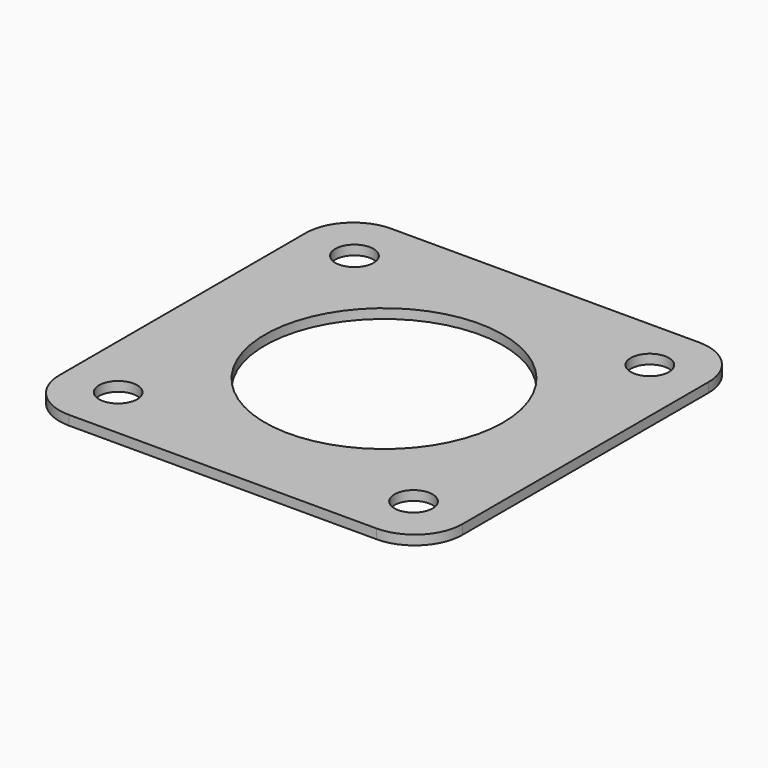
from build123d import *

# Parameters (mm, degrees)
F0_R     = 2
F0_R_2   = 12.5
F1_DEPTH = 1


with BuildPart() as f1:
    # F0 (on Top) → F1 (new body)
    with BuildSketch(Plane.XY):
        with BuildLine():
            ThreePointArc((21.15, 16.15), (19.685534, 19.685534), (16.15, 21.15))
            Line((16.15, 21.15), (-16.15, 21.15))
            ThreePointArc((-16.15, 21.15), (-19.685534, 19.685534), (-21.15, 16.15))
            Line((-21.15, 16.15), (-21.15, -16.15))
            ThreePointArc((-21.15, -16.15), (-19.685534, -19.685534), (-16.15, -21.15))
            Line((-16.15, -21.15), (16.15, -21.15))
            ThreePointArc((16.15, -21.15), (19.685534, -19.685534), (21.15, -16.15))
            Line((21.15, -16.15), (21.15, 16.15))
        make_face()
        with Locations((-15.5, -15.5)):
            Circle(F0_R, mode=Mode.SUBTRACT)
        with Locations((15.5, -15.5)):
            Circle(F0_R, mode=Mode.SUBTRACT)
        with Locations((-15.5, 15.5)):
            Circle(F0_R, mode=Mode.SUBTRACT)
        Circle(F0_R_2, mode=Mode.SUBTRACT)
        with Locations((15.5, 15.5)):
            Circle(F0_R, mode=Mode.SUBTRACT)
    extrude(amount=F1_DEPTH)


solid = f1.part
